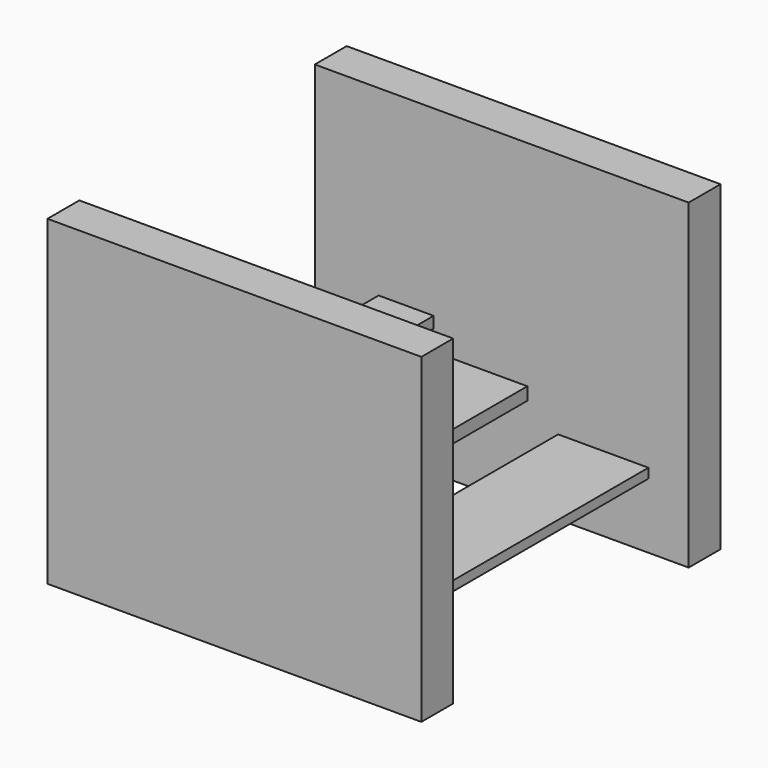
from build123d import *

# Parameters (mm, degrees)
F0_W     = 5.517931
F0_H     = 44.537588
F0_W_2   = 5.517932
F1_DEPTH = 51.816
F2_W     = 12.510221
F2_H     = 1.333464
F3_DEPTH = 41.7322
F4_W     = 11.388663
F4_H     = 1.764399
F5_DEPTH = 44.958
F6_W     = 7.620854
F6_H     = 1.563235
F7_DEPTH = 41.1734


with BuildPart() as f1:
    # F0 (on Right) → F1 (new body)
    with BuildSketch(Plane.YZ):
        with Locations((23.352669, -1.675087)):
            Rectangle(F0_W, F0_H)
        with Locations((-22.958535, -1.675087)):
            Rectangle(F0_W_2, F0_H)
    extrude(amount=F1_DEPTH)


with BuildPart() as f3:
    # F2 (on face) → F3 (new body)
    with BuildSketch(Plane(origin=(0, -20.199569, 0), x_dir=(-1, 0, 0), z_dir=(0, 1, 0))):
        with Locations((-39.980774, -14.236348)):
            Rectangle(F2_W, F2_H)
    extrude(amount=F3_DEPTH)


with BuildPart() as f5:
    # F4 (on face) → F5 (new body)
    with BuildSketch(Plane(origin=(0, -20.199569, 0), x_dir=(-1, 0, 0), z_dir=(0, 1, 0))):
        with Locations((-23.766953, -9.96829)):
            Rectangle(F4_W, F4_H)
    extrude(amount=F5_DEPTH)


with BuildPart() as f7:
    # F6 (on face) → F7 (new body)
    with BuildSketch(Plane(origin=(0, -20.199569, 0), x_dir=(-1, 0, 0), z_dir=(0, 1, 0))):
        with Locations((-12.658243, -5.495236)):
            Rectangle(F6_W, F6_H)
    extrude(amount=F7_DEPTH)


solid = Compound([f1.part, f3.part, f5.part, f7.part])
